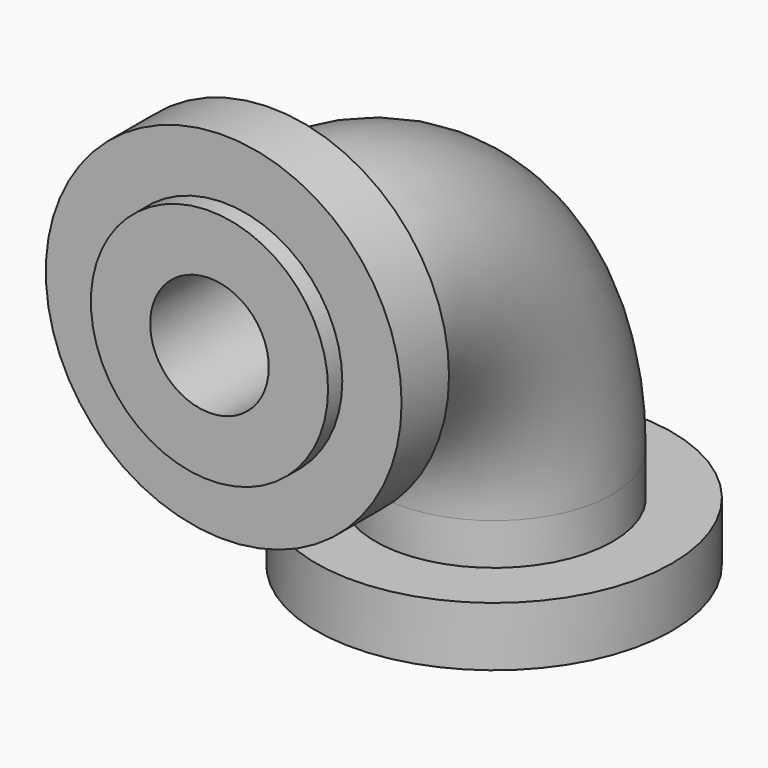
from build123d import *

# Parameters (mm, degrees)
F0_R     = 20
F0_R_2   = 10
F4_R     = 30
F4_R_2   = 20
F5_DEPTH = 10
F8_DEPTH = 20
F7_R     = 30
F7_R_2   = 20
F9_DEPTH = 10


with BuildPart() as f2:
    # F2: sweep along a path in F1
    with BuildLine(Plane.YZ) as f2_path:
        Line((0, 0), (20, 0))
        ThreePointArc((20, 0), (48.2842712475, -11.7157287525), (60, -40))
        Line((60, -40), (60, -60))
    # F0 (on Front) → F2 (sweep)
    with BuildSketch(Plane.XZ):
        Circle(F0_R)
        Circle(F0_R_2, mode=Mode.SUBTRACT)
    sweep(path=f2_path.line)

    # F8 (add): a face of the model
    f8_faces = [f2.faces().sort_by_distance(p)[0] for p in [
        (-19.4343145751, 60, -60),
    ]]
    extrude(f8_faces, amount=-F8_DEPTH)

    # F7 (on offset) → F9 (join)
    with BuildSketch(Plane(origin=(0, 0, -57), x_dir=(1, 0, 0), z_dir=(0, 0, -1))):
        with Locations((0, -60)):
            Circle(F7_R)
        with Locations((0, -60)):
            Circle(F7_R_2, mode=Mode.SUBTRACT)
    extrude(amount=-F9_DEPTH)


with BuildPart() as f5:
    # F4 (on offset) → F5 (new body)
    with BuildSketch(Plane.XZ.offset(-3)):
        Circle(F4_R)
        Circle(F4_R_2, mode=Mode.SUBTRACT)
    extrude(amount=-F5_DEPTH)


solid = Compound([f2.part, f5.part])
